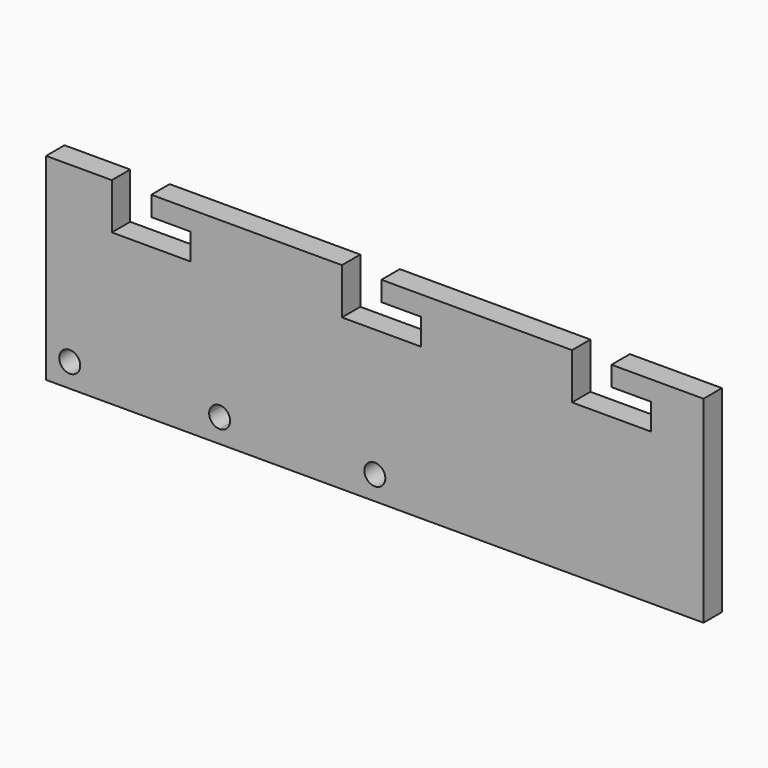
from build123d import *

# Parameters (mm, degrees)
F0_W     = 100
F0_H     = 30
F1_DEPTH = 3.5
F3_DEPTH = 3.501
F4_W     = 6
F4_H     = 4
F5_DEPTH = 3.501


with BuildPart() as f1:
    # F0 (on Front) → F1 (new body)
    with BuildSketch(Plane.XZ):
        Rectangle(F0_W, F0_H)
    extrude(amount=F1_DEPTH)

    # F2 (on face) → F3 (cut, through all)
    with BuildSketch(Plane.XZ.offset(3.5)):
        with BuildLine():
            ThreePointArc((-44.8, -11.4), (-46.4, -9.8), (-48, -11.4))
            Line((-48, -11.4), (-44.8, -11.4))
        make_face()
        with BuildLine():
            Line((-44.8, -11.4), (-48, -11.4))
            ThreePointArc((-48, -11.4), (-46.4, -13), (-44.8, -11.4))
        make_face()
        with BuildLine():
            Line((-23.6, -11.4), (-23.6, -13))
            ThreePointArc((-23.6, -13), (-22.4686291501, -12.5313708499), (-22, -11.4))
            Line((-22, -11.4), (-23.6, -11.4))
        make_face()
        with BuildLine():
            ThreePointArc((-25.2, -11.4), (-24.7313708499, -12.5313708499), (-23.6, -13))
            Line((-23.6, -13), (-23.6, -11.4))
            Line((-23.6, -11.4), (-25.2, -11.4))
        make_face()
        with BuildLine():
            Line((-25.2, -11.4), (-23.6, -11.4))
            Line((-23.6, -11.4), (-22, -11.4))
            ThreePointArc((-22, -11.4), (-23.6, -9.8), (-25.2, -11.4))
        make_face()
        with BuildLine():
            ThreePointArc((1.6, -11.4), (0, -9.8), (-1.6, -11.4))
            ThreePointArc((-1.6, -11.4), (0, -13), (1.6, -11.4))
        make_face()
    extrude(amount=-F3_DEPTH, mode=Mode.SUBTRACT)

    # F4 (on face) → F5 (cut, through all)
    with BuildSketch(Plane.XZ.offset(3.5)):
        Polygon((-34, 15), (-40, 15), (-40, 8), (-34, 8), (-34, 12), align=None)
        with Locations((-31, 10)):
            Rectangle(F4_W, F4_H)
        Polygon((1, 15), (-5, 15), (-5, 8), (1, 8), (1, 12), align=None)
        with Locations((4, 10)):
            Rectangle(F4_W, F4_H)
        Polygon((36, 15), (30, 15), (30, 8), (36, 8), (36, 12), align=None)
        with Locations((39, 10)):
            Rectangle(F4_W, F4_H)
    extrude(amount=-F5_DEPTH, mode=Mode.SUBTRACT)


solid = f1.part
